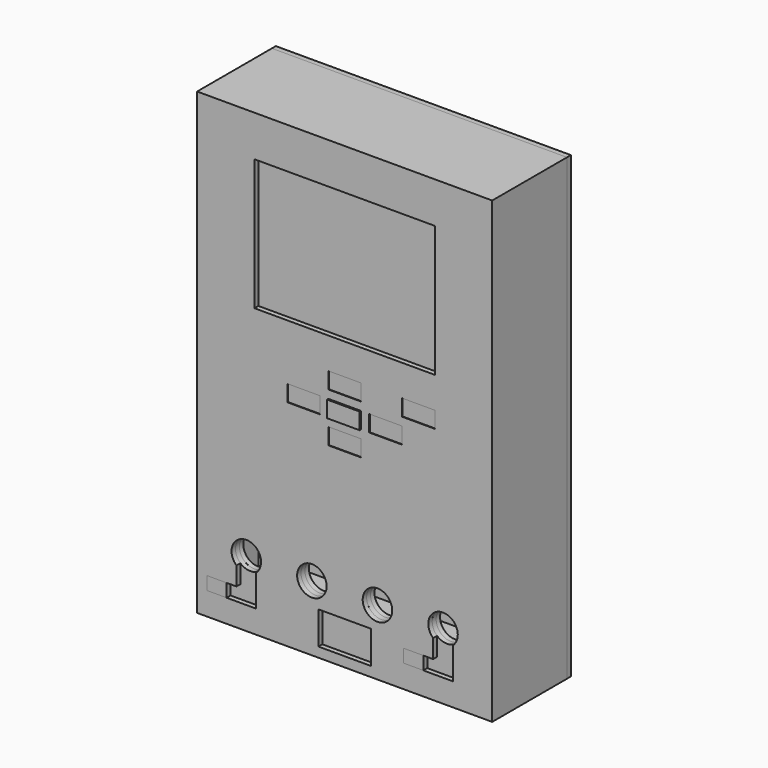
from build123d import *

# Parameters (mm, degrees)
BOX011_W               = 65
BOX011_H               = 1.5
BOX011_DEPTH           = 50
BOX008_W               = 1.5
BOX008_H               = 7
BOX008_DEPTH           = 137
BOX007_W               = 90
BOX007_H               = 1.5
BOX007_DEPTH           = 140
BOX009_W               = 84
BOX009_H               = 7
BOX009_DEPTH           = 1.5
BOX006_W               = 1.5
BOX006_H               = 7
BOX006_DEPTH           = 137
BOX005_W               = 84
BOX005_H               = 7
BOX005_DEPTH           = 1.5
CYLINDER008_R          = 4.5
CYLINDER008_DEPTH      = 10
CYLINDER008_ROLL_ANGLE = 90
CYLINDER010_R          = 4.5
CYLINDER010_DEPTH      = 10
CYLINDER010_ROLL_ANGLE = 90
CYLINDER009_R          = 4.5
CYLINDER009_DEPTH      = 10
CYLINDER009_ROLL_ANGLE = 90
CYLINDER011_R          = 4.5
CYLINDER011_DEPTH      = 10
CYLINDER011_ROLL_ANGLE = 90
BOX023_W               = 16
BOX023_H               = 10
BOX023_DEPTH           = 10
BOX021_W               = 87
BOX021_H               = 1.5
BOX021_DEPTH           = 47
BOX028_W               = 6
BOX028_H               = 1.5
BOX028_DEPTH           = 4
BOX031_W               = 6
BOX031_H               = 1.5
BOX031_DEPTH           = 4
BOX027_W               = 5
BOX027_H               = 1.5
BOX027_DEPTH           = 12
BOX025_W               = 5
BOX025_H               = 1.5
BOX025_DEPTH           = 12
CYLINDER002_R          = 4.5
CYLINDER002_DEPTH      = 10
CYLINDER002_ROLL_ANGLE = 90
CYLINDER001_R          = 4.5
CYLINDER001_DEPTH      = 10
CYLINDER001_ROLL_ANGLE = 90
CYLINDER003_R          = 4.5
CYLINDER003_DEPTH      = 10
CYLINDER003_ROLL_ANGLE = 90
CYLINDER_R             = 4.5
CYLINDER_DEPTH         = 10
CYLINDER_ROLL_ANGLE    = 90
BOX012_W               = 78
BOX012_H               = 1.5
BOX012_DEPTH           = 27
BOX041_W               = 5
BOX041_H               = 1.5
BOX041_DEPTH           = 12
BOX040_W               = 20
BOX040_H               = 1.5
BOX040_DEPTH           = 15
BOX039_W               = 10
BOX039_H               = 2
BOX039_DEPTH           = 5
BOX026_W               = 5
BOX026_H               = 1.5
BOX026_DEPTH           = 12
BOX024_W               = 5
BOX024_H               = 1.5
BOX024_DEPTH           = 12
BOX017_W               = 87
BOX017_H               = 1.5
BOX017_DEPTH           = 8
BOX034_W               = 10
BOX034_H               = 0.2
BOX034_DEPTH           = 5
BOX035_W               = 10
BOX035_H               = 0.2
BOX035_DEPTH           = 5
BOX036_W               = 10
BOX036_H               = 0.2
BOX036_DEPTH           = 5
BOX037_W               = 10
BOX037_H               = 0.2
BOX037_DEPTH           = 5
BOX038_W               = 10
BOX038_H               = 1.5
BOX038_DEPTH           = 5
BOX042_W               = 10
BOX042_H               = 0.2
BOX042_DEPTH           = 5
BOX033_W               = 6
BOX033_H               = 1.5
BOX033_DEPTH           = 12
BOX032_W               = 15
BOX032_H               = 1.5
BOX032_DEPTH           = 4
BOX030_W               = 6
BOX030_H               = 1.5
BOX030_DEPTH           = 12
BOX029_W               = 15
BOX029_H               = 1.5
BOX029_DEPTH           = 4
BOX_W                  = 1.5
BOX_H                  = 27
BOX_DEPTH              = 140
BOX002_W               = 87
BOX002_H               = 27
BOX002_DEPTH           = 1.5
BOX001_W               = 1.5
BOX001_H               = 27
BOX001_DEPTH           = 140
CYLINDER004_R          = 4.5
CYLINDER004_DEPTH      = 10
CYLINDER004_ROLL_ANGLE = 90
CYLINDER006_R          = 4.5
CYLINDER006_DEPTH      = 10
CYLINDER006_ROLL_ANGLE = 90
CYLINDER005_R          = 4.5
CYLINDER005_DEPTH      = 10
CYLINDER005_ROLL_ANGLE = 90
CYLINDER007_R          = 4.5
CYLINDER007_DEPTH      = 10
CYLINDER007_ROLL_ANGLE = 90
BOX020_W               = 16
BOX020_H               = 10
BOX020_DEPTH           = 10
BOX019_W               = 55
BOX019_H               = 1.5
BOX019_DEPTH           = 40
BOX018_W               = 90
BOX018_H               = 1.5
BOX018_DEPTH           = 140
BOX004_W               = 87
BOX004_H               = 27
BOX004_DEPTH           = 1.5


with BuildPart() as cube011:
    # Box011 → Box011 (new body)
    with BuildSketch(Plane(origin=(12.5, 1.5, 82.5), x_dir=(1, 0, 0), z_dir=(0, 0, 1))):
        with Locations((32.5, 0.75)):
            Rectangle(BOX011_W, BOX011_H)
    extrude(amount=BOX011_DEPTH)


with BuildPart() as cube008:
    # Box008 → Box008 (new body)
    with BuildSketch(Plane(origin=(87, 21.5, 1.5), x_dir=(1, 0, 0), z_dir=(0, 0, 1))):
        with Locations((0.75, 3.5)):
            Rectangle(BOX008_W, BOX008_H)
    extrude(amount=BOX008_DEPTH)


with BuildPart() as cube007:
    # Box007 → Box007 (new body)
    with BuildSketch(Plane(origin=(0, 28.5, 0), x_dir=(1, 0, 0), z_dir=(0, 0, 1))):
        with Locations((45, 0.75)):
            Rectangle(BOX007_W, BOX007_H)
    extrude(amount=BOX007_DEPTH)


with BuildPart() as cube009:
    # Box009 → Box009 (new body)
    with BuildSketch(Plane(origin=(3, 21.5, 1.5), x_dir=(1, 0, 0), z_dir=(0, 0, 1))):
        with Locations((42, 3.5)):
            Rectangle(BOX009_W, BOX009_H)
    extrude(amount=BOX009_DEPTH)


with BuildPart() as cube006:
    # Box006 → Box006 (new body)
    with BuildSketch(Plane(origin=(1.5, 21.5, 1.5), x_dir=(1, 0, 0), z_dir=(0, 0, 1))):
        with Locations((0.75, 3.5)):
            Rectangle(BOX006_W, BOX006_H)
    extrude(amount=BOX006_DEPTH)


with BuildPart() as fusion001:
    # Box005 → Box005 (new body)
    with BuildSketch(Plane(origin=(3, 21.5, 137), x_dir=(1, 0, 0), z_dir=(0, 0, 1))):
        with Locations((42, 3.5)):
            Rectangle(BOX005_W, BOX005_H)
    extrude(amount=BOX005_DEPTH)

    # Fusion001: union Cube008, Cube007, Cube009, Cube006
    add(cube008.part)
    add(cube007.part)
    add(cube009.part)
    add(cube006.part)


with BuildPart() as cylinder008:
    # Cylinder008 → Cylinder008 (new body)
    with BuildSketch(Plane.XY):
        Circle(CYLINDER008_R)
    extrude(amount=CYLINDER008_DEPTH)


with BuildPart() as cylinder008_1:
    # Cylinder008 roll: moved
    add(cylinder008.part.rotate(Axis((0, 0, 0), (1, 0, 0)), CYLINDER008_ROLL_ANGLE))


with BuildPart() as cylinder008_2:
    # Cylinder008 placement: moved
    add(cylinder008_1.part.moved(Location((15, 5, 20))))


with BuildPart() as cylinder010:
    # Cylinder010 → Cylinder010 (new body)
    with BuildSketch(Plane.XY):
        Circle(CYLINDER010_R)
    extrude(amount=CYLINDER010_DEPTH)


with BuildPart() as cylinder010_1:
    # Cylinder010 roll: moved
    add(cylinder010.part.rotate(Axis((0, 0, 0), (1, 0, 0)), CYLINDER010_ROLL_ANGLE))


with BuildPart() as cylinder010_2:
    # Cylinder010 placement: moved
    add(cylinder010_1.part.moved(Location((35, 5, 20))))


with BuildPart() as cylinder009:
    # Cylinder009 → Cylinder009 (new body)
    with BuildSketch(Plane.XY):
        Circle(CYLINDER009_R)
    extrude(amount=CYLINDER009_DEPTH)


with BuildPart() as cylinder009_1:
    # Cylinder009 roll: moved
    add(cylinder009.part.rotate(Axis((0, 0, 0), (1, 0, 0)), CYLINDER009_ROLL_ANGLE))


with BuildPart() as cylinder009_2:
    # Cylinder009 placement: moved
    add(cylinder009_1.part.moved(Location((55, 5, 20))))


with BuildPart() as cylinder011:
    # Cylinder011 → Cylinder011 (new body)
    with BuildSketch(Plane.XY):
        Circle(CYLINDER011_R)
    extrude(amount=CYLINDER011_DEPTH)


with BuildPart() as cylinder011_1:
    # Cylinder011 roll: moved
    add(cylinder011.part.rotate(Axis((0, 0, 0), (1, 0, 0)), CYLINDER011_ROLL_ANGLE))


with BuildPart() as cylinder011_2:
    # Cylinder011 placement: moved
    add(cylinder011_1.part.moved(Location((75, 5, 20))))


with BuildPart() as fusion004:
    # Box023 → Box023 (new body)
    with BuildSketch(Plane(origin=(37, -5, 3), x_dir=(1, 0, 0), z_dir=(0, 0, 1))):
        with Locations((8, 5)):
            Rectangle(BOX023_W, BOX023_H)
    extrude(amount=BOX023_DEPTH)

    # Fusion004: union Cylinder008, Cylinder010, Cylinder009, Cylinder011
    add(cylinder008_2.part)
    add(cylinder010_2.part)
    add(cylinder009_2.part)
    add(cylinder011_2.part)


with BuildPart() as cut:
    # Box021 → Box021 (new body)
    with BuildSketch(Plane(origin=(1.5, 3, 1.5), x_dir=(1, 0, 0), z_dir=(0, 0, 1))):
        with Locations((43.5, 0.75)):
            Rectangle(BOX021_W, BOX021_H)
    extrude(amount=BOX021_DEPTH)

    # Cut: cut Fusion004
    add(fusion004.part, mode=Mode.SUBTRACT)


with BuildPart() as cube028:
    # Box028 → Box028 (new body)
    with BuildSketch(Plane(origin=(3, 0, 7), x_dir=(1, 0, 0), z_dir=(0, 0, 1))):
        with Locations((3, 0.75)):
            Rectangle(BOX028_W, BOX028_H)
    extrude(amount=BOX028_DEPTH)


with BuildPart() as cube031:
    # Box031 → Box031 (new body)
    with BuildSketch(Plane(origin=(63, 0, 7), x_dir=(1, 0, 0), z_dir=(0, 0, 1))):
        with Locations((3, 0.75)):
            Rectangle(BOX031_W, BOX031_H)
    extrude(amount=BOX031_DEPTH)


with BuildPart() as cube027:
    # Box027 → Box027 (new body)
    with BuildSketch(Plane(origin=(12.5, 1.5, 16.5), x_dir=(1, 0, 0), z_dir=(0, 0, 1))):
        with Locations((2.5, 0.75)):
            Rectangle(BOX027_W, BOX027_H)
    extrude(amount=BOX027_DEPTH)


with BuildPart() as cube025:
    # Box025 → Box025 (new body)
    with BuildSketch(Plane(origin=(52.5, 1.5, 16.5), x_dir=(1, 0, 0), z_dir=(0, 0, 1))):
        with Locations((2.5, 0.75)):
            Rectangle(BOX025_W, BOX025_H)
    extrude(amount=BOX025_DEPTH)


with BuildPart() as cylinder002:
    # Cylinder002 → Cylinder002 (new body)
    with BuildSketch(Plane.XY):
        Circle(CYLINDER002_R)
    extrude(amount=CYLINDER002_DEPTH)


with BuildPart() as cylinder002_1:
    # Cylinder002 roll: moved
    add(cylinder002.part.rotate(Axis((0, 0, 0), (1, 0, 0)), CYLINDER002_ROLL_ANGLE))


with BuildPart() as cylinder002_2:
    # Cylinder002 placement: moved
    add(cylinder002_1.part.moved(Location((35, 5, 20))))


with BuildPart() as cylinder001:
    # Cylinder001 → Cylinder001 (new body)
    with BuildSketch(Plane.XY):
        Circle(CYLINDER001_R)
    extrude(amount=CYLINDER001_DEPTH)


with BuildPart() as cylinder001_1:
    # Cylinder001 roll: moved
    add(cylinder001.part.rotate(Axis((0, 0, 0), (1, 0, 0)), CYLINDER001_ROLL_ANGLE))


with BuildPart() as cylinder001_2:
    # Cylinder001 placement: moved
    add(cylinder001_1.part.moved(Location((55, 5, 20))))


with BuildPart() as cylinder003:
    # Cylinder003 → Cylinder003 (new body)
    with BuildSketch(Plane.XY):
        Circle(CYLINDER003_R)
    extrude(amount=CYLINDER003_DEPTH)


with BuildPart() as cylinder003_1:
    # Cylinder003 roll: moved
    add(cylinder003.part.rotate(Axis((0, 0, 0), (1, 0, 0)), CYLINDER003_ROLL_ANGLE))


with BuildPart() as cylinder003_2:
    # Cylinder003 placement: moved
    add(cylinder003_1.part.moved(Location((75, 5, 20))))


with BuildPart() as fusion002:
    # Cylinder → Cylinder (new body)
    with BuildSketch(Plane.XY):
        Circle(CYLINDER_R)
    extrude(amount=CYLINDER_DEPTH)


with BuildPart() as fusion002_1:
    # Cylinder roll: moved
    add(fusion002.part.rotate(Axis((0, 0, 0), (1, 0, 0)), CYLINDER_ROLL_ANGLE))


with BuildPart() as fusion002_2:
    # Cylinder placement: moved
    add(fusion002_1.part.moved(Location((15, 5, 20))))

    # Fusion002: union Cylinder002, Cylinder001, Cylinder003
    add(cylinder002_2.part)
    add(cylinder001_2.part)
    add(cylinder003_2.part)


with BuildPart() as fusion008:
    # Box012 → Box012 (new body)
    with BuildSketch(Plane(origin=(1.5, 1.5, 1.5), x_dir=(1, 0, 0), z_dir=(0, 0, 1))):
        with Locations((39, 0.75)):
            Rectangle(BOX012_W, BOX012_H)
    extrude(amount=BOX012_DEPTH)

    # Cut002: cut Fusion002
    add(fusion002_2.part, mode=Mode.SUBTRACT)

    # Cut005: cut Cube025
    add(cube025.part, mode=Mode.SUBTRACT)

    # Cut006: cut Cube027
    add(cube027.part, mode=Mode.SUBTRACT)

    # Fusion008: union Cube028, Cube031
    add(cube028.part)
    add(cube031.part)


with BuildPart() as cube041:
    # Box041 → Box041 (new body)
    with BuildSketch(Plane(origin=(42.5, 1.5, 48.5), x_dir=(1, 0, 0), z_dir=(0, 0, 1))):
        with Locations((2.5, 0.75)):
            Rectangle(BOX041_W, BOX041_H)
    extrude(amount=BOX041_DEPTH)


with BuildPart() as cube040:
    # Box040 → Box040 (new body)
    with BuildSketch(Plane(origin=(35, 1.5, 60.5), x_dir=(1, 0, 0), z_dir=(0, 0, 1))):
        with Locations((10, 0.75)):
            Rectangle(BOX040_W, BOX040_H)
    extrude(amount=BOX040_DEPTH)


with BuildPart() as fusion010:
    # Box039 → Box039 (new body)
    with BuildSketch(Plane(origin=(40, -0.5, 65.5), x_dir=(1, 0, 0), z_dir=(0, 0, 1))):
        with Locations((5, 1)):
            Rectangle(BOX039_W, BOX039_H)
    extrude(amount=BOX039_DEPTH)

    # Fusion010: union Cube041, Cube040
    add(cube041.part)
    add(cube040.part)


with BuildPart() as cube026:
    # Box026 → Box026 (new body)
    with BuildSketch(Plane(origin=(61.5, 1.5, 28.5), x_dir=(1, 0, 0), z_dir=(0, 0, 1))):
        with Locations((2.5, 0.75)):
            Rectangle(BOX026_W, BOX026_H)
    extrude(amount=BOX026_DEPTH)


with BuildPart() as cube024:
    # Box024 → Box024 (new body)
    with BuildSketch(Plane(origin=(21.5, 1.5, 28.5), x_dir=(1, 0, 0), z_dir=(0, 0, 1))):
        with Locations((2.5, 0.75)):
            Rectangle(BOX024_W, BOX024_H)
    extrude(amount=BOX024_DEPTH)


with BuildPart() as fusion011:
    # Box017 → Box017 (new body)
    with BuildSketch(Plane(origin=(1.5, 1.5, 40.5), x_dir=(1, 0, 0), z_dir=(0, 0, 1))):
        with Locations((43.5, 0.75)):
            Rectangle(BOX017_W, BOX017_H)
    extrude(amount=BOX017_DEPTH)

    # Fusion011: union Cube026, Cube024
    add(cube026.part)
    add(cube024.part)


with BuildPart() as cube034:
    # Box034 → Box034 (new body)
    with BuildSketch(Plane(origin=(40, 0, 58), x_dir=(1, 0, 0), z_dir=(0, 0, 1))):
        with Locations((5, 0.1)):
            Rectangle(BOX034_W, BOX034_H)
    extrude(amount=BOX034_DEPTH)


with BuildPart() as cube035:
    # Box035 → Box035 (new body)
    with BuildSketch(Plane(origin=(40, 0, 73), x_dir=(1, 0, 0), z_dir=(0, 0, 1))):
        with Locations((5, 0.1)):
            Rectangle(BOX035_W, BOX035_H)
    extrude(amount=BOX035_DEPTH)


with BuildPart() as cube036:
    # Box036 → Box036 (new body)
    with BuildSketch(Plane(origin=(27.5, 0, 65.5), x_dir=(1, 0, 0), z_dir=(0, 0, 1))):
        with Locations((5, 0.1)):
            Rectangle(BOX036_W, BOX036_H)
    extrude(amount=BOX036_DEPTH)


with BuildPart() as cube037:
    # Box037 → Box037 (new body)
    with BuildSketch(Plane(origin=(52.5, 0, 65.5), x_dir=(1, 0, 0), z_dir=(0, 0, 1))):
        with Locations((5, 0.1)):
            Rectangle(BOX037_W, BOX037_H)
    extrude(amount=BOX037_DEPTH)


with BuildPart() as cube038:
    # Box038 → Box038 (new body)
    with BuildSketch(Plane(origin=(40, 0, 65.5), x_dir=(1, 0, 0), z_dir=(0, 0, 1))):
        with Locations((5, 0.75)):
            Rectangle(BOX038_W, BOX038_H)
    extrude(amount=BOX038_DEPTH)


with BuildPart() as fusion012:
    # Box042 → Box042 (new body)
    with BuildSketch(Plane(origin=(62.5, 0, 73), x_dir=(1, 0, 0), z_dir=(0, 0, 1))):
        with Locations((5, 0.1)):
            Rectangle(BOX042_W, BOX042_H)
    extrude(amount=BOX042_DEPTH)

    # Fusion012: union Cube034, Cube035, Cube036, Cube037, Cube038
    add(cube034.part)
    add(cube035.part)
    add(cube036.part)
    add(cube037.part)
    add(cube038.part)


with BuildPart() as cube033:
    # Box033 → Box033 (new body)
    with BuildSketch(Plane(origin=(72, 0, 11), x_dir=(1, 0, 0), z_dir=(0, 0, 1))):
        with Locations((3, 0.75)):
            Rectangle(BOX033_W, BOX033_H)
    extrude(amount=BOX033_DEPTH)


with BuildPart() as fusion006:
    # Box032 → Box032 (new body)
    with BuildSketch(Plane(origin=(63, 0, 7), x_dir=(1, 0, 0), z_dir=(0, 0, 1))):
        with Locations((7.5, 0.75)):
            Rectangle(BOX032_W, BOX032_H)
    extrude(amount=BOX032_DEPTH)

    # Fusion006: union Cube033
    add(cube033.part)


with BuildPart() as cube030:
    # Box030 → Box030 (new body)
    with BuildSketch(Plane(origin=(12, 0, 11), x_dir=(1, 0, 0), z_dir=(0, 0, 1))):
        with Locations((3, 0.75)):
            Rectangle(BOX030_W, BOX030_H)
    extrude(amount=BOX030_DEPTH)


with BuildPart() as fusion007:
    # Box029 → Box029 (new body)
    with BuildSketch(Plane(origin=(3, 0, 7), x_dir=(1, 0, 0), z_dir=(0, 0, 1))):
        with Locations((7.5, 0.75)):
            Rectangle(BOX029_W, BOX029_H)
    extrude(amount=BOX029_DEPTH)

    # Fusion005: union Cube030
    add(cube030.part)

    # Fusion007: union Fusion006
    add(fusion006.part)


with BuildPart() as cube:
    # Box → Box (new body)
    with BuildSketch(Plane(origin=(0, 1.5, 0), x_dir=(1, 0, 0), z_dir=(0, 0, 1))):
        with Locations((0.75, 13.5)):
            Rectangle(BOX_W, BOX_H)
    extrude(amount=BOX_DEPTH)


with BuildPart() as cube002:
    # Box002 → Box002 (new body)
    with BuildSketch(Plane(origin=(1.5, 1.5, 0), x_dir=(1, 0, 0), z_dir=(0, 0, 1))):
        with Locations((43.5, 13.5)):
            Rectangle(BOX002_W, BOX002_H)
    extrude(amount=BOX002_DEPTH)


with BuildPart() as cube001:
    # Box001 → Box001 (new body)
    with BuildSketch(Plane(origin=(88.5, 1.5, 0), x_dir=(1, 0, 0), z_dir=(0, 0, 1))):
        with Locations((0.75, 13.5)):
            Rectangle(BOX001_W, BOX001_H)
    extrude(amount=BOX001_DEPTH)


with BuildPart() as cylinder004:
    # Cylinder004 → Cylinder004 (new body)
    with BuildSketch(Plane.XY):
        Circle(CYLINDER004_R)
    extrude(amount=CYLINDER004_DEPTH)


with BuildPart() as cylinder004_1:
    # Cylinder004 roll: moved
    add(cylinder004.part.rotate(Axis((0, 0, 0), (1, 0, 0)), CYLINDER004_ROLL_ANGLE))


with BuildPart() as cylinder004_2:
    # Cylinder004 placement: moved
    add(cylinder004_1.part.moved(Location((15, 5, 20))))


with BuildPart() as cylinder006:
    # Cylinder006 → Cylinder006 (new body)
    with BuildSketch(Plane.XY):
        Circle(CYLINDER006_R)
    extrude(amount=CYLINDER006_DEPTH)


with BuildPart() as cylinder006_1:
    # Cylinder006 roll: moved
    add(cylinder006.part.rotate(Axis((0, 0, 0), (1, 0, 0)), CYLINDER006_ROLL_ANGLE))


with BuildPart() as cylinder006_2:
    # Cylinder006 placement: moved
    add(cylinder006_1.part.moved(Location((35, 5, 20))))


with BuildPart() as cylinder005:
    # Cylinder005 → Cylinder005 (new body)
    with BuildSketch(Plane.XY):
        Circle(CYLINDER005_R)
    extrude(amount=CYLINDER005_DEPTH)


with BuildPart() as cylinder005_1:
    # Cylinder005 roll: moved
    add(cylinder005.part.rotate(Axis((0, 0, 0), (1, 0, 0)), CYLINDER005_ROLL_ANGLE))


with BuildPart() as cylinder005_2:
    # Cylinder005 placement: moved
    add(cylinder005_1.part.moved(Location((55, 5, 20))))


with BuildPart() as cylinder007:
    # Cylinder007 → Cylinder007 (new body)
    with BuildSketch(Plane.XY):
        Circle(CYLINDER007_R)
    extrude(amount=CYLINDER007_DEPTH)


with BuildPart() as cylinder007_1:
    # Cylinder007 roll: moved
    add(cylinder007.part.rotate(Axis((0, 0, 0), (1, 0, 0)), CYLINDER007_ROLL_ANGLE))


with BuildPart() as cylinder007_2:
    # Cylinder007 placement: moved
    add(cylinder007_1.part.moved(Location((75, 5, 20))))


with BuildPart() as fusion003:
    # Box020 → Box020 (new body)
    with BuildSketch(Plane(origin=(37, -5, 3), x_dir=(1, 0, 0), z_dir=(0, 0, 1))):
        with Locations((8, 5)):
            Rectangle(BOX020_W, BOX020_H)
    extrude(amount=BOX020_DEPTH)

    # Fusion003: union Cylinder004, Cylinder006, Cylinder005, Cylinder007
    add(cylinder004_2.part)
    add(cylinder006_2.part)
    add(cylinder005_2.part)
    add(cylinder007_2.part)


with BuildPart() as cube019:
    # Box019 → Box019 (new body)
    with BuildSketch(Plane(origin=(17.5, 0, 87.5), x_dir=(1, 0, 0), z_dir=(0, 0, 1))):
        with Locations((27.5, 0.75)):
            Rectangle(BOX019_W, BOX019_H)
    extrude(amount=BOX019_DEPTH)


with BuildPart() as cut004:
    # Box018 → Box018 (new body)
    with BuildSketch(Plane.XY):
        with Locations((45, 0.75)):
            Rectangle(BOX018_W, BOX018_H)
    extrude(amount=BOX018_DEPTH)

    # Cut003: cut Cube019
    add(cube019.part, mode=Mode.SUBTRACT)

    # Cut004: cut Fusion003
    add(fusion003.part, mode=Mode.SUBTRACT)


with BuildPart() as cut008:
    # Box004 → Box004 (new body)
    with BuildSketch(Plane(origin=(1.5, 1.5, 138.5), x_dir=(1, 0, 0), z_dir=(0, 0, 1))):
        with Locations((43.5, 13.5)):
            Rectangle(BOX004_W, BOX004_H)
    extrude(amount=BOX004_DEPTH)

    # Fusion: union Cube, Cube002, Cube001, Cut004
    add(cube.part)
    add(cube002.part)
    add(cube001.part)
    add(cut004.part)

    # Cut007: cut Fusion007
    add(fusion007.part, mode=Mode.SUBTRACT)

    # Cut008: cut Fusion012
    add(fusion012.part, mode=Mode.SUBTRACT)


solid = Compound([cube011.part, fusion001.part, cut.part, fusion008.part, fusion010.part, fusion011.part, cut008.part])
